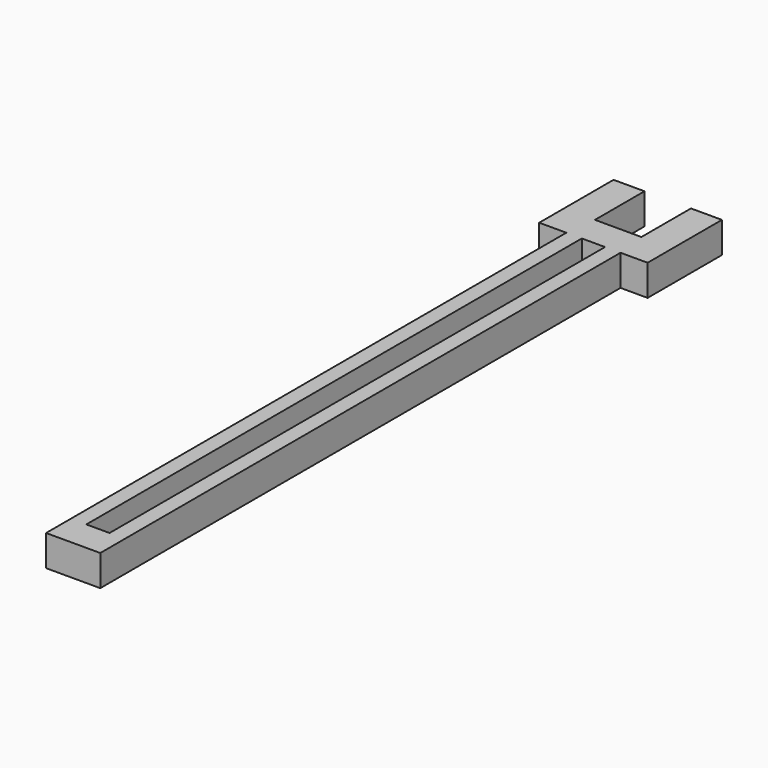
from build123d import *

# Parameters (mm, degrees)
F0_W     = 44.45
F0_H     = 25.4
F1_DEPTH = 533.4
F2_W     = 19.05
F2_H     = 508
F3_DEPTH = 25.4
F4_W     = 88.9
F4_H     = 25.4
F5_DEPTH = 76.2
F6_W     = 38.1
F6_H     = 50.8
F7_DEPTH = 25.4


with BuildPart() as f1:
    # F0 (on Front) → F1 (new body)
    with BuildSketch(Plane.XZ):
        Rectangle(F0_W, F0_H)
    extrude(amount=-F1_DEPTH)

    # F2 (on face) → F3 (cut)
    with BuildSketch(Plane.XY.offset(12.7)):
        with Locations((0, 279.4)):
            Rectangle(F2_W, F2_H)
    extrude(amount=-F3_DEPTH, mode=Mode.SUBTRACT)

    # F4 (on face) → F5 (join)
    with BuildSketch(Plane(origin=(0, 533.4, 0), x_dir=(-1, 0, 0), z_dir=(0, 1, 0))):
        Rectangle(F4_W, F4_H)
    extrude(amount=F5_DEPTH)

    # F6 (on face) → F7 (cut)
    with BuildSketch(Plane.XY.offset(12.7)):
        with Locations((0, 584.2)):
            Rectangle(F6_W, F6_H)
    extrude(amount=-F7_DEPTH, mode=Mode.SUBTRACT)


solid = f1.part
